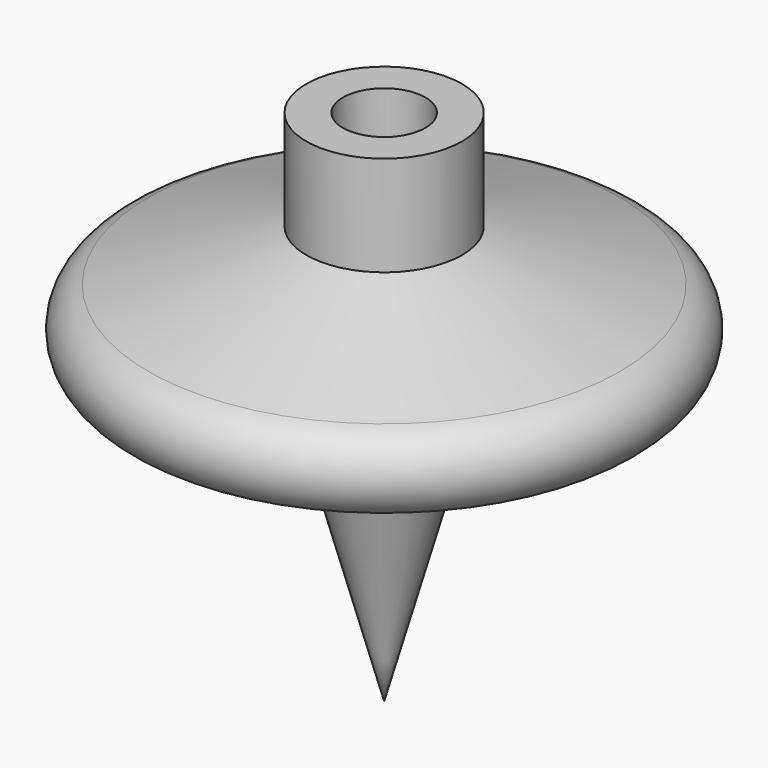
from build123d import *

# Parameters (mm, degrees)
F2_R     = 5.338258
F3_DEPTH = 12.7


with BuildPart() as f1:
    # F0 (on Front) → F1 (revolve)
    with BuildSketch(Plane.XZ):
        Polygon((0, 67.058742), (0, 0), (10.361006, 37.414748), (30.507408, 37.414748), (30.507408, 47.487948), (10.073201, 54.107483), (10.073201, 67.058742), align=None)
        with BuildLine():
            Line((30.507408, 47.487948), (30.507408, 37.414748))
            ThreePointArc((30.507408, 37.414748), (34.17011, 42.451348), (30.507408, 47.487948))
        make_face()
    revolve(axis=Axis((0, 0, 33.529371), (0, 0, -1)))

    # F2 (on face) → F3 (cut)
    with BuildSketch(Plane.XY.offset(67.058742)):
        Circle(F2_R)
    extrude(amount=-F3_DEPTH, mode=Mode.SUBTRACT)


solid = f1.part
